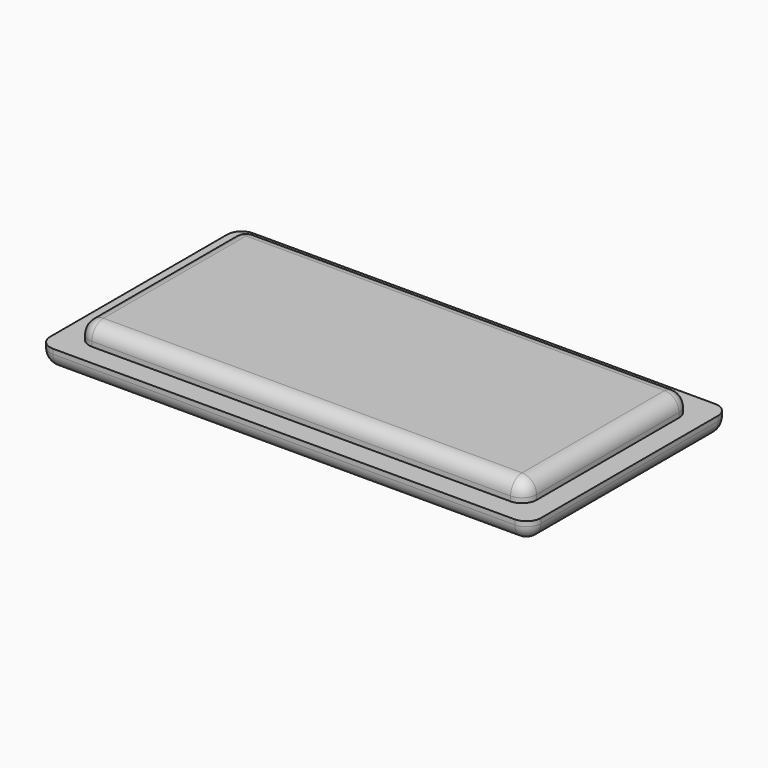
from build123d import *

# Parameters (mm, degrees)
F0_W     = 51
F0_H     = 26
F0_W_2   = 46.5
F0_H_2   = 21.5
F1_DEPTH = 2
F2_DEPTH = 4
F3_R     = 1.5
F4_R     = 1.5


with BuildPart() as f1:
    # F0 (on Top) → F1 (new body)
    with BuildSketch(Plane.XY):
        Rectangle(F0_W, F0_H)
        Rectangle(F0_W_2, F0_H_2, mode=Mode.SUBTRACT)
    extrude(amount=F1_DEPTH)

    # F0 (on Top) → F2 (join)
    with BuildSketch(Plane.XY):
        Rectangle(F0_W_2, F0_H_2)
    extrude(amount=F2_DEPTH)

    # F3
    f3_edges = [f1.edges().sort_by_distance(p)[0] for p in [
        (25.5, 13, 1),
        (-25.5, 13, 1),
        (-25.5, -13, 1),
        (25.5, -13, 1),
        (25.5, 0, 0),
        (0, -13, 0),
        (-25.5, 0, 0),
        (0, 13, 0),
    ]]
    fillet(f3_edges, radius=F3_R)

    # F4
    f4_edges = [f1.edges().sort_by_distance(p)[0] for p in [
        (-23.25, -10.75, 3),
        (-23.25, 10.75, 3),
        (23.25, 10.75, 3),
        (23.25, -10.75, 3),
        (23.25, 0, 4),
        (0, -10.75, 4),
        (-23.25, 0, 4),
        (0, 10.75, 4),
    ]]
    fillet(f4_edges, radius=F4_R)


solid = f1.part
